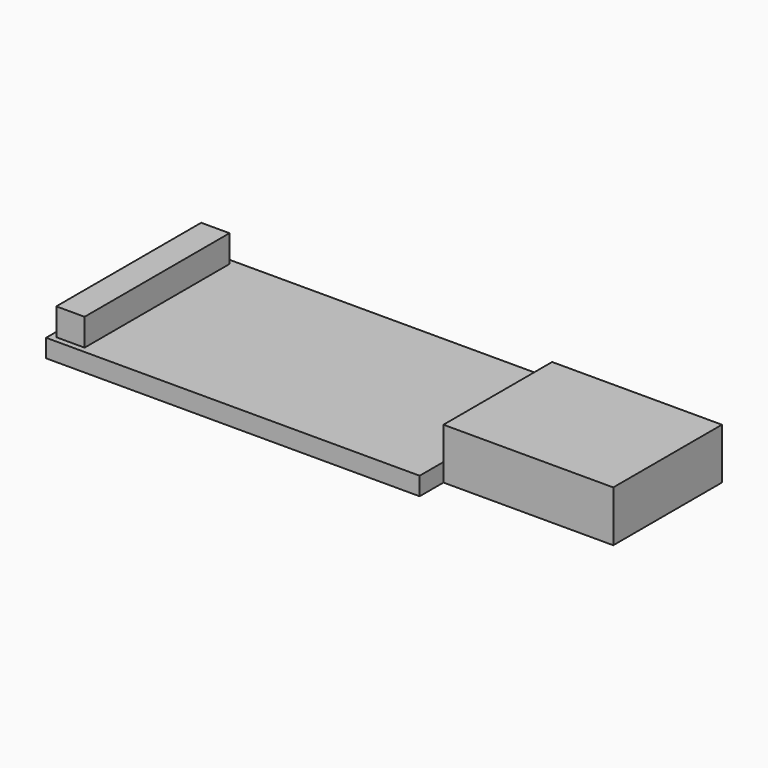
from build123d import *

# Parameters (mm, degrees)
F1_DEPTH = 1.6
F0_W     = 15
F0_H     = 12
F2_DEPTH = 4.5
F3_W     = 2.5
F3_H     = 16
F4_DEPTH = 2.4


with BuildPart() as f1:
    # F0 (on Top) → F1 (new body)
    with BuildSketch(Plane.XY):
        Polygon((-15, -0.567309), (-48, -0.567309), (-48, -17.567309), (-15, -17.567309), (-15, -14.936926), (-15, -2.936926), align=None)
    extrude(amount=F1_DEPTH)

    # F0 (on Top) → F2 (join)
    with BuildSketch(Plane.XY):
        with Locations((-7.5, -8.936926)):
            Rectangle(F0_W, F0_H)
    extrude(amount=F2_DEPTH)

    # F3 (on face) → F4 (join)
    with BuildSketch(Plane.XY.offset(1.6)):
        with Locations((-46.25, -9.064941)):
            Rectangle(F3_W, F3_H)
    extrude(amount=F4_DEPTH)


solid = f1.part
